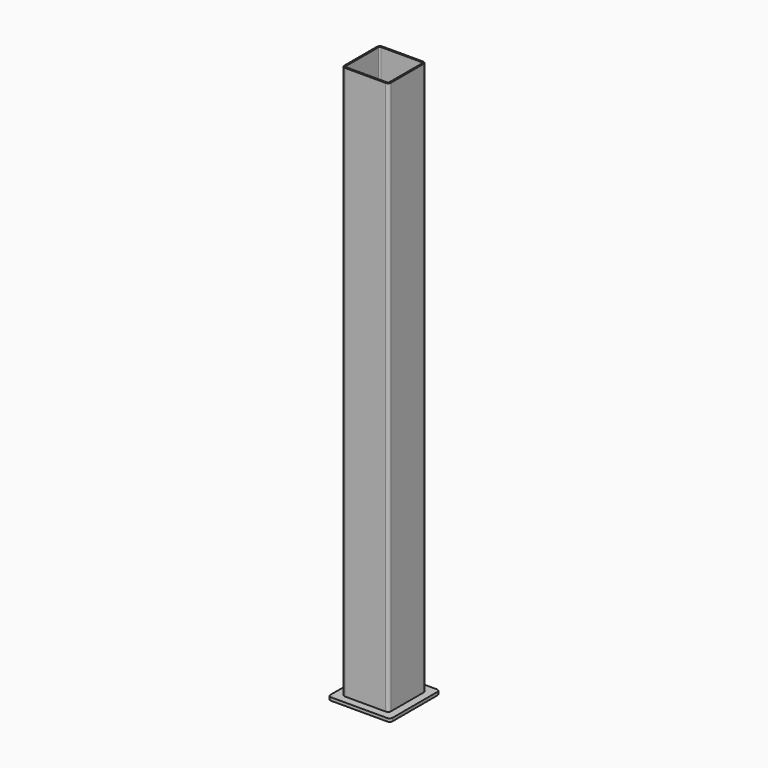
from build123d import *

# Parameters (mm, degrees)
F0_W     = 75
F0_H     = 75
F1_DEPTH = 890
F2_R     = 5
F3_T     = -2.5
F4_W     = 100
F4_H     = 100
F5_DEPTH = 5
F6_R     = 5


with BuildPart() as f1:
    # F0 (on Top) → F1 (new body)
    with BuildSketch(Plane.XY):
        Rectangle(F0_W, F0_H)
    extrude(amount=F1_DEPTH)

    # F2
    f2_edges = [f1.edges().sort_by_distance(p)[0] for p in [
        (-37.5, -37.5, 445),
        (-37.5, 37.5, 445),
        (37.5, -37.5, 445),
        (37.5, 37.5, 445),
    ]]
    fillet(f2_edges, radius=F2_R)

    # F3
    f3_openings = [f1.faces().sort_by_distance(p)[0] for p in [
        (0, 0, 0),
        (0, 0, 890),
    ]]
    offset(amount=F3_T, openings=f3_openings)

    # F4 (on Top) → F5 (join)
    with BuildSketch(Plane.XY):
        Rectangle(F4_W, F4_H)
    extrude(amount=-F5_DEPTH)

    # F6
    f6_edges = [f1.edges().sort_by_distance(p)[0] for p in [
        (50, -50, -2.5),
        (50, 50, -2.5),
        (-50, -50, -2.5),
        (-50, 50, -2.5),
    ]]
    fillet(f6_edges, radius=F6_R)


solid = f1.part
